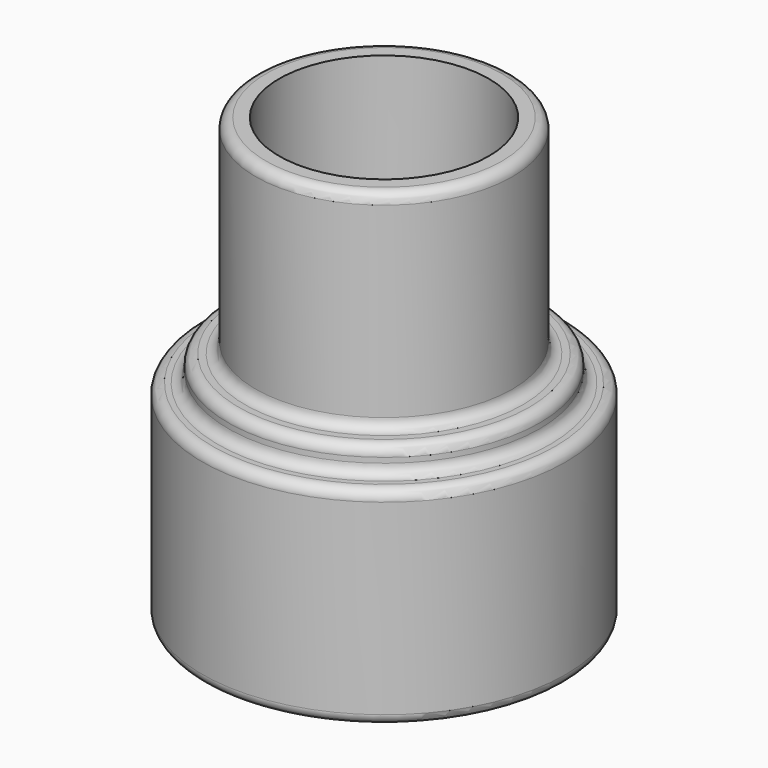
from build123d import *

# Parameters (mm, degrees)
F0_R     = 22.225
F0_R_2   = 15.875
F1_DEPTH = 25.4
F2_R     = 19.05
F2_R_2   = 14.1224
F3_DEPTH = 3.175
F4_R     = 15.7099
F4_R_2   = 12.8143
F5_DEPTH = 25.4
F6_R     = 1.27


with BuildPart() as f1:
    # F0 (on Top) → F1 (new body)
    with BuildSketch(Plane.XY):
        Circle(F0_R)
        Circle(F0_R_2, mode=Mode.SUBTRACT)
    extrude(amount=F1_DEPTH)

    # F2 (on face) → F3 (join)
    with BuildSketch(Plane.XY.offset(25.4)):
        Circle(F2_R)
        Circle(F2_R_2, mode=Mode.SUBTRACT)
    extrude(amount=F3_DEPTH)

    # F4 (on face) → F5 (join)
    with BuildSketch(Plane.XY.offset(28.575)):
        Circle(F4_R)
        Circle(F4_R_2, mode=Mode.SUBTRACT)
    extrude(amount=F5_DEPTH)

    # F6
    f6_edges = [f1.edges().sort_by_distance(p)[0] for p in [
        (-15.7099, 0, 53.975),
        (-19.05, 0, 28.575),
        (-22.225, 0, 25.4),
        (-15.7099, 0, 28.575),
        (-22.225, 0, 0),
        (-19.05, 0, 25.4),
    ]]
    fillet(f6_edges, radius=F6_R)


solid = f1.part
